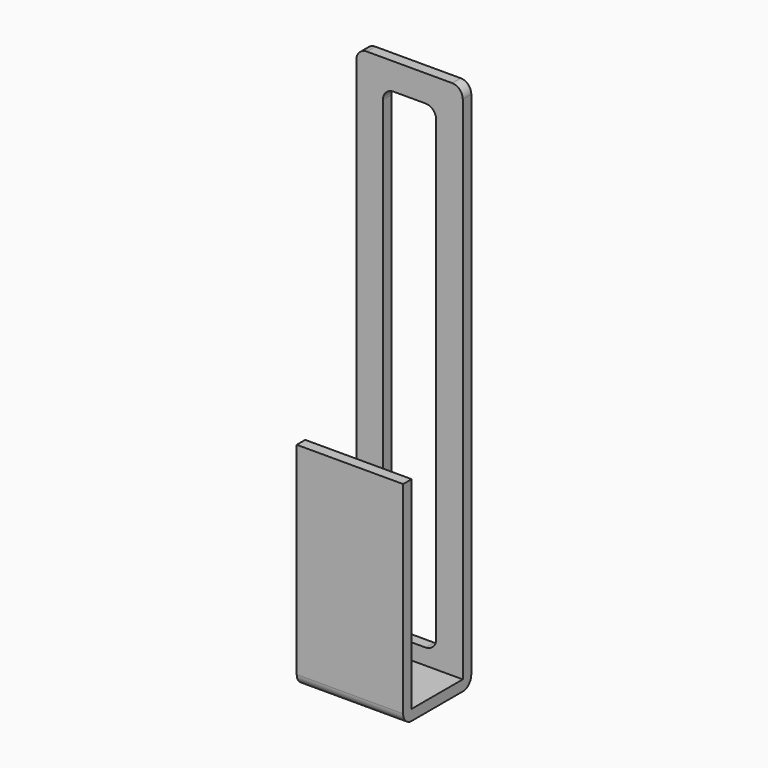
from build123d import *

# Parameters (mm, degrees)
F1_DEPTH = 10
F2_T     = -2
F3_W     = 10
F3_H     = 90
F4_DEPTH = 2
F5_R     = 2


with BuildPart() as f1:
    # F0 (on Right) → F1 (new body, symmetric)
    with BuildSketch(Plane.YZ):
        Polygon((-0.131682, 59.474063), (-10.131682, 59.474063), (-10.131682, -0.525937), (-16.131682, -0.525937), (-16.131682, -40.525937), (-0.131682, -40.525937), align=None)
    extrude(amount=F1_DEPTH, both=True)

    # F2
    f2_openings = [f1.faces().sort_by_distance(p)[0] for p in [
        (0, -13.131682, -0.525937),
        (0, -10.131682, 29.474063),
        (0, -5.131682, 59.474063),
        (10, -6.680069, 3.667611),
        (-10, -6.680069, 3.667611),
    ]]
    offset(amount=F2_T, openings=f2_openings)

    # F3 (on face) → F4 (cut)
    with BuildSketch(Plane(origin=(0, -0.131682, 0), x_dir=(-1, 0, 0), z_dir=(0, 1, 0))):
        with Locations((0, 9.474063)):
            Rectangle(F3_W, F3_H)
    extrude(amount=-F4_DEPTH, mode=Mode.SUBTRACT)

    # F5
    f5_edges = [f1.edges().sort_by_distance(p)[0] for p in [
        (10, -1.131682, 59.474063),
        (-10, -1.131682, 59.474063),
        (-5, -1.131682, 54.474063),
        (5, -1.131682, 54.474063),
        (0, -0.131682, -40.525937),
        (0, -16.131682, -40.525937),
        (-5, -1.131682, -35.525937),
        (5, -1.131682, -35.525937),
    ]]
    fillet(f5_edges, radius=F5_R)


solid = f1.part
